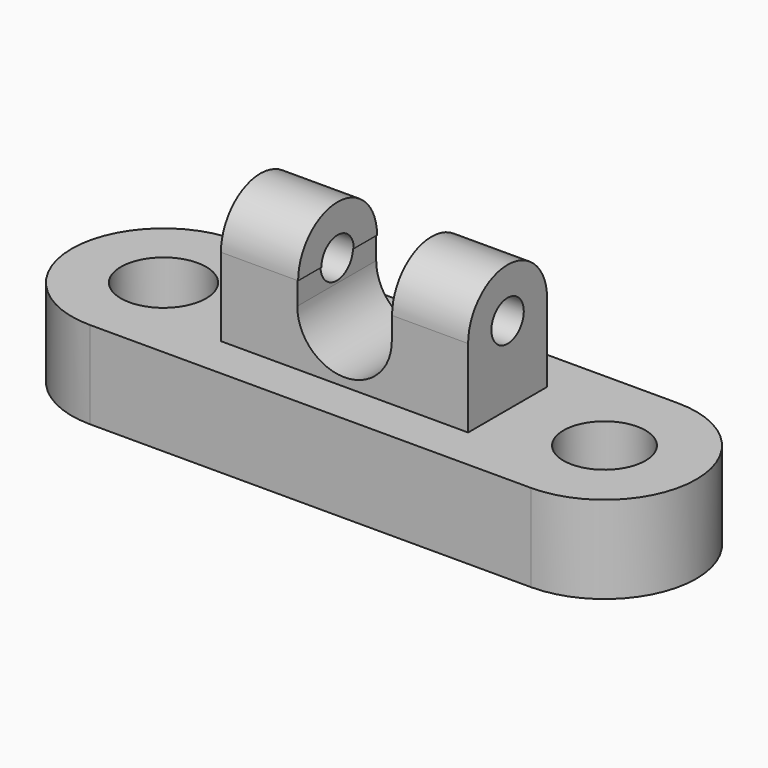
from build123d import *

# Parameters (mm, degrees)
F0_W      = 98.6741781235
F0_H      = 41.0901270807
F1_DEPTH  = 19.558
F2_R      = 9.1792961358
F2_R_2    = 9.5503911514
F3_DEPTH  = 38.354
F4_W      = 55.3103350103
F4_H      = 22.0765508711
F5_DEPTH  = 17.526
F6_W      = 21.1468022317
F6_H      = 22.0765508711
F7_DEPTH  = 5.08
F9_DEPTH  = 159.766
F11_DEPTH = 17.018
F13_DEPTH = 17.272
F14_R     = 4.5299196653
F15_DEPTH = 118.872


with BuildPart() as f1:
    # F0 (on Top) → F1 (new body)
    with BuildSketch(Plane.XY):
        Rectangle(F0_W, F0_H)
        with BuildLine():
            ThreePointArc((49.3370890617, -20.5450635403), (69.8821526021, 0), (49.3370890617, 20.5450635403))
            Line((49.3370890617, 20.5450635403), (49.3370890617, -20.5450635403))
        make_face()
        with BuildLine():
            Line((-49.3370890617, -20.5450635403), (-49.3370890617, 20.5450635403))
            ThreePointArc((-49.3370890617, 20.5450635403), (-69.8821526021, 0), (-49.3370890617, -20.5450635403))
        make_face()
        Rectangle(F0_W, F0_H)
    extrude(amount=F1_DEPTH)

    # F2 (on face) → F3 (cut)
    with BuildSketch(Plane.XY.offset(19.558)):
        with Locations((49.3370890617, 0)):
            Circle(F2_R)
        with Locations((-49.3370890617, 0)):
            Circle(F2_R_2)
    extrude(amount=-F3_DEPTH, mode=Mode.SUBTRACT)

    # F4 (on face) → F5 (join)
    with BuildSketch(Plane.XY.offset(19.558)):
        Rectangle(F4_W, F4_H)
        Rectangle(F4_W, F4_H)
    extrude(amount=F5_DEPTH)

    # F6 (on face) → F7 (cut)
    with BuildSketch(Plane.XY.offset(37.084)):
        Rectangle(F6_W, F6_H)
    extrude(amount=-F7_DEPTH, mode=Mode.SUBTRACT)

    # F8 (on face) → F9 (cut)
    with BuildSketch(Plane(origin=(0, 11.0382754356, 0), x_dir=(-1, 0, 0), z_dir=(0, 1, 0))):
        with BuildLine():
            Line((10.5734011158, 32.004), (-10.5734011158, 32.004))
            ThreePointArc((-10.5734011158, 32.004), (0, 21.4305988842), (10.5734011158, 32.004))
        make_face()
    extrude(amount=-F9_DEPTH, mode=Mode.SUBTRACT)

    # F10 (on face) → F11 (join)
    with BuildSketch(Plane.YZ.offset(27.6551675051)):
        with BuildLine():
            Line((-11.0382754356, 37.084), (11.0382754356, 37.084))
            ThreePointArc((11.0382754356, 37.084), (0, 48.1222754356), (-11.0382754356, 37.084))
        make_face()
    extrude(amount=-F11_DEPTH)

    # F12 (on face) → F13 (join)
    with BuildSketch(Plane(origin=(-27.6551675051, 0, 0), x_dir=(0, -1, 0), z_dir=(-1, 0, 0))):
        with BuildLine():
            Line((-11.0382754356, 37.084), (11.0382754356, 37.084))
            ThreePointArc((11.0382754356, 37.084), (0, 48.1222754356), (-11.0382754356, 37.084))
        make_face()
    extrude(amount=-F13_DEPTH)

    # F14 (on face) → F15 (cut)
    with BuildSketch(Plane.YZ.offset(27.6551675051)):
        with Locations((0, 37.084)):
            Circle(F14_R)
    extrude(amount=-F15_DEPTH, mode=Mode.SUBTRACT)


solid = f1.part
